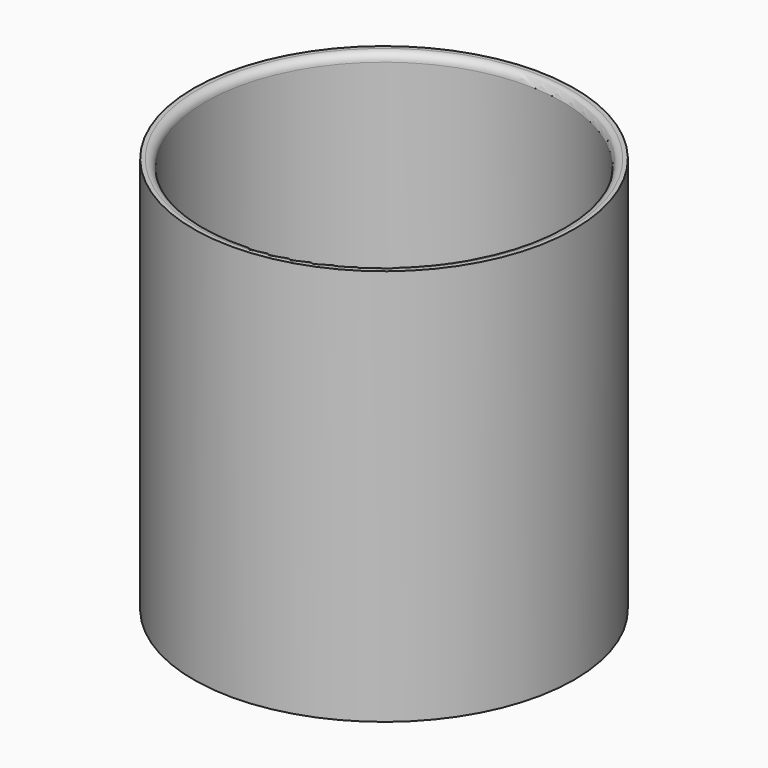
from build123d import *

# Parameters (mm, degrees)
F0_R     = 12
F0_R_2   = 11.25
F1_DEPTH = 25
F2_R     = 0.5


with BuildPart() as f1:
    # F0 (on Top) → F1 (new body)
    with BuildSketch(Plane.XY):
        Circle(F0_R)
        Circle(F0_R_2, mode=Mode.SUBTRACT)
    extrude(amount=-F1_DEPTH)

    # F2
    f2_edges = [f1.edges().sort_by_distance(p)[0] for p in [
        (-11.25, 0, -25),
        (-11.25, 0, 0),
    ]]
    fillet(f2_edges, radius=F2_R)


solid = f1.part
